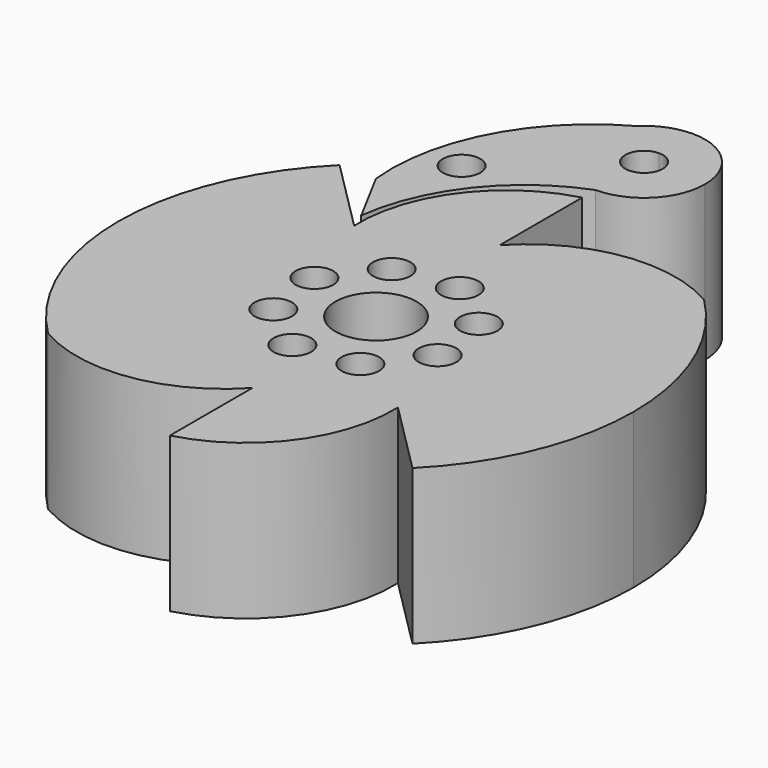
from build123d import *

# Parameters (mm, degrees)
F0_R     = 1.85
F0_R_2   = 4
F1_DEPTH = 15.24


with BuildPart() as f1:
    # F0 (on Top) → F1 (new body)
    with BuildSketch(Plane.XY):
        with BuildLine():
            Line((0, 15.24), (0, 25.4))
            ThreePointArc((0, 25.4), (-7.945733, 19.972852), (-10.776307, 10.776307))
            Line((-10.776307, 10.776307), (-17.960512, 17.960512))
            ThreePointArc((-17.960512, 17.960512), (-19.741421, 8.504458), (-15.24, 0))
            Line((-15.24, 0), (-25.4, 0))
            ThreePointArc((-25.4, 0), (-19.972852, -7.945733), (-10.776307, -10.776307))
            Line((-10.776307, -10.776307), (-17.960512, -17.960512))
            ThreePointArc((-17.960512, -17.960512), (-8.504458, -19.741421), (0, -15.24))
            Line((0, -15.24), (0, -25.4))
            ThreePointArc((0, -25.4), (7.945733, -19.972852), (10.776307, -10.776307))
            Line((10.776307, -10.776307), (17.960512, -17.960512))
            ThreePointArc((17.960512, -17.960512), (19.741421, -8.504458), (15.24, 0))
            Line((15.24, 0), (25.4, 0))
            ThreePointArc((25.4, 0), (19.972852, 7.945733), (10.776307, 10.776307))
            Line((10.776307, 10.776307), (17.960512, 17.960512))
            ThreePointArc((17.960512, 17.960512), (8.504458, 19.741421), (0, 15.24))
        make_face()
        with Locations((-6.928203, -4)):
            Circle(F0_R, mode=Mode.SUBTRACT)
        with Locations((-2.070552, -7.727407)):
            Circle(F0_R, mode=Mode.SUBTRACT)
        with Locations((-7.727407, 2.070552)):
            Circle(F0_R, mode=Mode.SUBTRACT)
        Circle(F0_R_2, mode=Mode.SUBTRACT)
        with Locations((4, -6.928203)):
            Circle(F0_R, mode=Mode.SUBTRACT)
        with Locations((7.727407, -2.070552)):
            Circle(F0_R, mode=Mode.SUBTRACT)
        with Locations((6.928203, 4)):
            Circle(F0_R, mode=Mode.SUBTRACT)
        with Locations((-4, 6.928203)):
            Circle(F0_R, mode=Mode.SUBTRACT)
        with Locations((2.070552, 7.727407)):
            Circle(F0_R, mode=Mode.SUBTRACT)
        with BuildLine():
            ThreePointArc((-11.419216, 12.442), (-7.720768, 21.306379), (0, 27.02))
            ThreePointArc((0, 27.02), (-5.557578, 30.758733), (-4.189057, 37.315556))
            ThreePointArc((-4.189057, 37.315556), (-12.196379, 29.172505), (-14.36841, 17.960512))
            Line((-14.36841, 17.960512), (-11.419216, 12.442))
        make_face()
        with Locations((-10.554843, 23.737144)):
            Circle(F0_R, mode=Mode.SUBTRACT)
        with BuildLine():
            ThreePointArc((-4.189057, 37.315556), (-5.557578, 30.758733), (0, 27.02))
            Line((0, 27.02), (0, 31.17))
            ThreePointArc((0, 31.17), (-1.85, 33.02), (0, 34.87))
            Line((0, 34.87), (0, 39.02))
            ThreePointArc((0, 39.02), (-2.261267, 38.577578), (-4.189057, 37.315556))
        make_face()
        with BuildLine():
            Line((0, 31.17), (0, 27.02))
            ThreePointArc((0, 27.02), (4.242641, 28.777359), (6, 33.02))
            ThreePointArc((6, 33.02), (4.242641, 37.262641), (0, 39.02))
            Line((0, 39.02), (0, 34.87))
            ThreePointArc((0, 34.87), (1.308148, 34.328148), (1.85, 33.02))
            ThreePointArc((1.85, 33.02), (1.308148, 31.711852), (0, 31.17))
        make_face()
        with BuildLine():
            ThreePointArc((25.4, 0), (23.46654, 9.720159), (17.960512, 17.960512))
            Line((17.960512, 17.960512), (10.776307, 10.776307))
            ThreePointArc((10.776307, 10.776307), (19.972852, 7.945733), (25.4, 0))
        make_face()
        with BuildLine():
            ThreePointArc((-15.24, 0), (-19.741421, 8.504458), (-17.960512, 17.960512))
            ThreePointArc((-17.960512, 17.960512), (-23.46654, 9.720159), (-25.4, 0))
            Line((-25.4, 0), (-15.24, 0))
        make_face()
        with BuildLine():
            ThreePointArc((17.960512, -17.960512), (23.46654, -9.720159), (25.4, 0))
            Line((25.4, 0), (15.24, 0))
            ThreePointArc((15.24, 0), (19.741421, -8.504458), (17.960512, -17.960512))
        make_face()
        with BuildLine():
            ThreePointArc((-10.776307, -10.776307), (-19.972852, -7.945733), (-25.4, 0))
            ThreePointArc((-25.4, 0), (-23.46654, -9.720159), (-17.960512, -17.960512))
            Line((-17.960512, -17.960512), (-10.776307, -10.776307))
        make_face()
    extrude(amount=F1_DEPTH)


solid = f1.part
